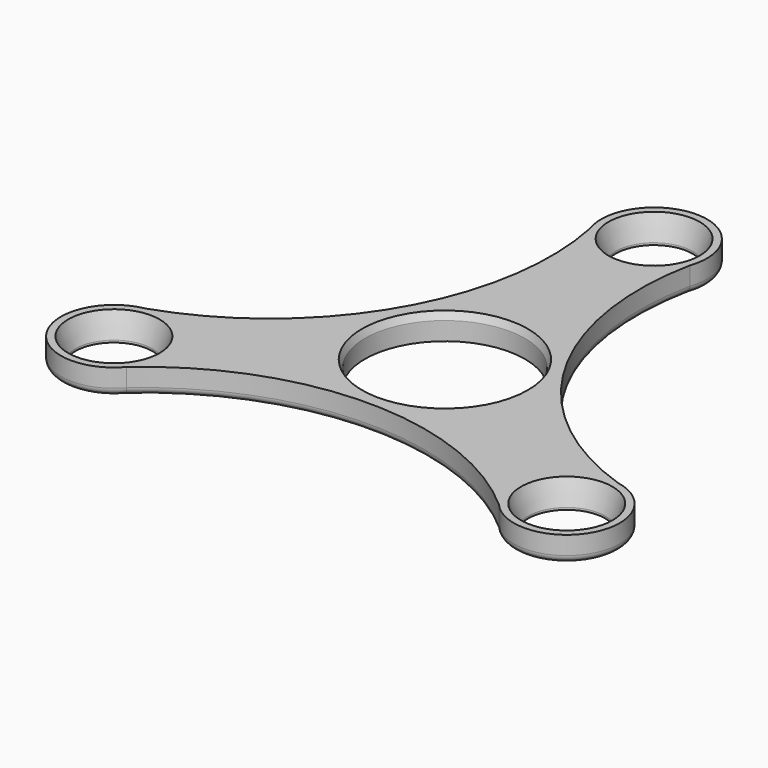
from build123d import *

# Parameters (mm, degrees)
F0_R       = 5.25
F0_R_2     = 10.95
F1_DEPTH   = 3.5
F2_SIZE2   = 0.4
F2_SIZE    = 1
F3_SIZE2   = 1
F3_SIZE    = 3.2
F3_2_SIZE2 = 1
F3_2_SIZE  = 3.2
F3_3_SIZE2 = 1
F3_3_SIZE  = 3.2
F4_R       = 1


with BuildPart() as f1:
    # F0 (on Top) → F1 (new body)
    with BuildSketch(Plane.XY):
        with BuildLine():
            ThreePointArc((32.3008352617, -10.7570571715), (11.2405764073, 6.4897498146), (6.8345328504, 33.3518724858))
            ThreePointArc((6.8345328504, 33.3518724858), (0, 43.0208930969), (-6.8345328504, 33.3518724858))
            ThreePointArc((-6.8345328504, 33.3518724858), (-11.2405764073, 6.4897498146), (-32.3008352617, -10.7570571715))
            ThreePointArc((-32.3008352617, -10.7570571715), (-37.2571863154, -21.5104465485), (-25.4663024113, -22.5948153143))
            ThreePointArc((-25.4663024113, -22.5948153143), (0, -12.9794996293), (25.4663024113, -22.5948153143))
            ThreePointArc((25.4663024113, -22.5948153143), (37.2571863154, -21.5104465485), (32.3008352617, -10.7570571715))
        make_face()
        with Locations((-30.978502138, -17.8854465485)):
            Circle(F0_R, mode=Mode.SUBTRACT)
        with Locations((30.978502138, -17.8854465485)):
            Circle(F0_R, mode=Mode.SUBTRACT)
        Circle(F0_R_2, mode=Mode.SUBTRACT)
        with Locations((0, 35.7708930969)):
            Circle(F0_R, mode=Mode.SUBTRACT)
    extrude(amount=F1_DEPTH)

    # F2
    f2_edges = [f1.edges().sort_by_distance(p)[0] for p in [
        (-10.95, 0, 3.5),
    ]]
    f2_side = f1.faces().sort_by_distance((-10.95, 0, 1.75))[0]
    chamfer(f2_edges, length=F2_SIZE, length2=F2_SIZE2, reference=f2_side)

    # F3
    f3_edges = [f1.edges().sort_by_distance(p)[0] for p in [
        (-5.25, 35.770893, 3.5),
    ]]
    f3_side = f1.faces().sort_by_distance((-5.25, 35.770893, 1.75))[0]
    chamfer(f3_edges, length=F3_SIZE, length2=F3_SIZE2, reference=f3_side)

    # F3#2
    f3_2_edges = [f1.edges().sort_by_distance(p)[0] for p in [
        (-36.228502, -17.885447, 3.5),
    ]]
    f3_2_side = f1.faces().sort_by_distance((-36.228502, -17.885447, 1.75))[0]
    chamfer(f3_2_edges, length=F3_2_SIZE, length2=F3_2_SIZE2, reference=f3_2_side)

    # F3#3
    f3_3_edges = [f1.edges().sort_by_distance(p)[0] for p in [
        (25.728502, -17.885447, 3.5),
    ]]
    f3_3_side = f1.faces().sort_by_distance((25.728502, -17.885447, 1.75))[0]
    chamfer(f3_3_edges, length=F3_3_SIZE, length2=F3_3_SIZE2, reference=f3_3_side)

    # F4
    f4_edges = [f1.edges().sort_by_distance(p)[0] for p in [
        (0, -12.9795, 0),
        (11.240576, 6.48975, 0),
        (37.257186, -21.510447, 0),
        (0, 43.020893, 0),
        (-37.257186, -21.510447, 0),
        (-11.240576, 6.48975, 0),
    ]]
    fillet(f4_edges, radius=F4_R)


solid = f1.part
